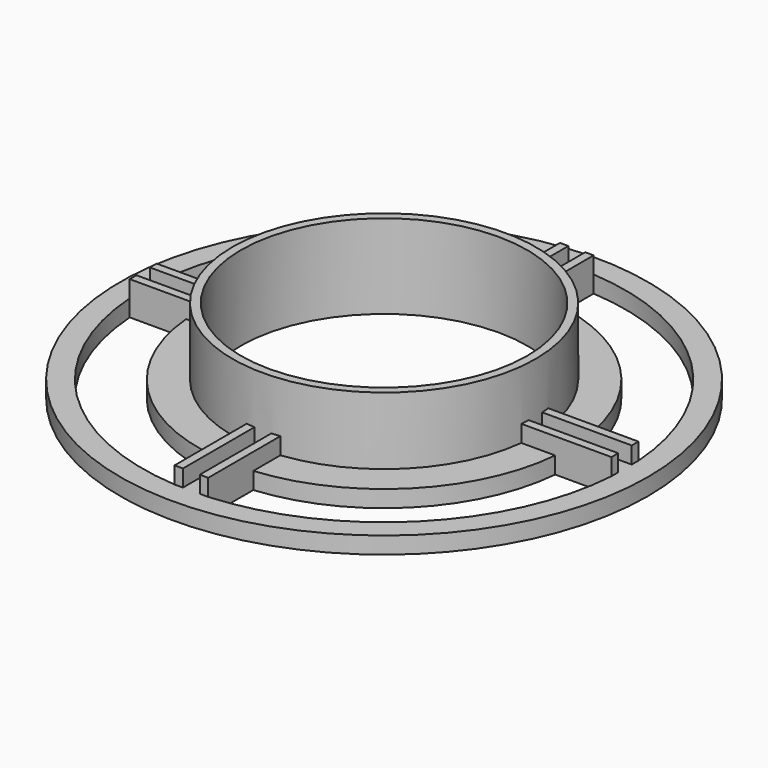
from build123d import *

# Parameters (mm, degrees)
F0_R     = 27
F0_R_2   = 25.5
F1_DEPTH = 15
F0_R_3   = 47
F2_DEPTH = 3
F3_W     = 16.0624054491
F3_H     = 1.5
F3_W_2   = 1.5
F3_H_2   = 16.0624054491
F4_DEPTH = 3
F5_DEPTH = 3


with BuildPart() as f1:
    # F0 (on Top) → F1 (new body)
    with BuildSketch(Plane.XY):
        Circle(F0_R)
        Circle(F0_R_2, mode=Mode.SUBTRACT)
    extrude(amount=F1_DEPTH)

    # F0 (on Top) → F2 (join)
    with BuildSketch(Plane.XY):
        Circle(F0_R_3)
        with BuildLine():
            ThreePointArc((-3, -42.8952211791), (-30.405591591, -30.405591591), (-42.8952211791, -3))
            Line((-42.8952211791, -3), (-32.8633534503, -3))
            ThreePointArc((-32.8633534503, -3), (-23.3345237792, -23.3345237792), (-3, -32.8633534503))
            Line((-3, -32.8633534503), (-3, -42.8952211791))
        make_face(mode=Mode.SUBTRACT)
        with BuildLine():
            ThreePointArc((3, -32.8633534503), (23.3345237792, -23.3345237792), (32.8633534503, -3))
            Line((32.8633534503, -3), (42.8952211791, -3))
            ThreePointArc((42.8952211791, -3), (30.405591591, -30.405591591), (3, -42.8952211791))
            Line((3, -42.8952211791), (3, -32.8633534503))
        make_face(mode=Mode.SUBTRACT)
        with BuildLine():
            ThreePointArc((-3, 32.8633534503), (-23.3345237792, 23.3345237792), (-32.8633534503, 3))
            Line((-32.8633534503, 3), (-42.8952211791, 3))
            ThreePointArc((-42.8952211791, 3), (-30.405591591, 30.405591591), (-3, 42.8952211791))
            Line((-3, 42.8952211791), (-3, 32.8633534503))
        make_face(mode=Mode.SUBTRACT)
        Circle(F0_R, mode=Mode.SUBTRACT)
        with BuildLine():
            Line((42.8952211791, 3), (32.8633534503, 3))
            ThreePointArc((32.8633534503, 3), (23.3345237792, 23.3345237792), (3, 32.8633534503))
            Line((3, 32.8633534503), (3, 42.8952211791))
            ThreePointArc((3, 42.8952211791), (30.405591591, 30.405591591), (42.8952211791, 3))
        make_face(mode=Mode.SUBTRACT)
    extrude(amount=F2_DEPTH)

    # F3 (on face) → F4 (join)
    with BuildSketch(Plane.XY.offset(3)):
        with Locations((-34.8640184545, 2.25)):
            Rectangle(F3_W, F3_H)
        with Locations((-34.8640184545, -2.25)):
            Rectangle(F3_W, F3_H)
        with Locations((34.8640184545, 2.25)):
            Rectangle(F3_W, F3_H)
        with Locations((34.8640184545, -2.25)):
            Rectangle(F3_W, F3_H)
        with Locations((-2.25, 34.8640184545)):
            Rectangle(F3_W_2, F3_H_2)
        with Locations((2.25, 34.8640184545)):
            Rectangle(F3_W_2, F3_H_2)
        with Locations((-2.25, -34.8640184545)):
            Rectangle(F3_W_2, F3_H_2)
        with Locations((2.25, -34.8640184545)):
            Rectangle(F3_W_2, F3_H_2)
    extrude(amount=F4_DEPTH)

    # F3 (on face) → F5 (join)
    with BuildSketch(Plane.XY.offset(3)):
        with Locations((-34.8640184545, 2.25)):
            Rectangle(F3_W, F3_H)
        with Locations((-34.8640184545, -2.25)):
            Rectangle(F3_W, F3_H)
        with Locations((34.8640184545, 2.25)):
            Rectangle(F3_W, F3_H)
        with Locations((34.8640184545, -2.25)):
            Rectangle(F3_W, F3_H)
        with Locations((-2.25, 34.8640184545)):
            Rectangle(F3_W_2, F3_H_2)
        with Locations((2.25, 34.8640184545)):
            Rectangle(F3_W_2, F3_H_2)
        with Locations((-2.25, -34.8640184545)):
            Rectangle(F3_W_2, F3_H_2)
        with Locations((2.25, -34.8640184545)):
            Rectangle(F3_W_2, F3_H_2)
    extrude(amount=-F5_DEPTH)


solid = f1.part
